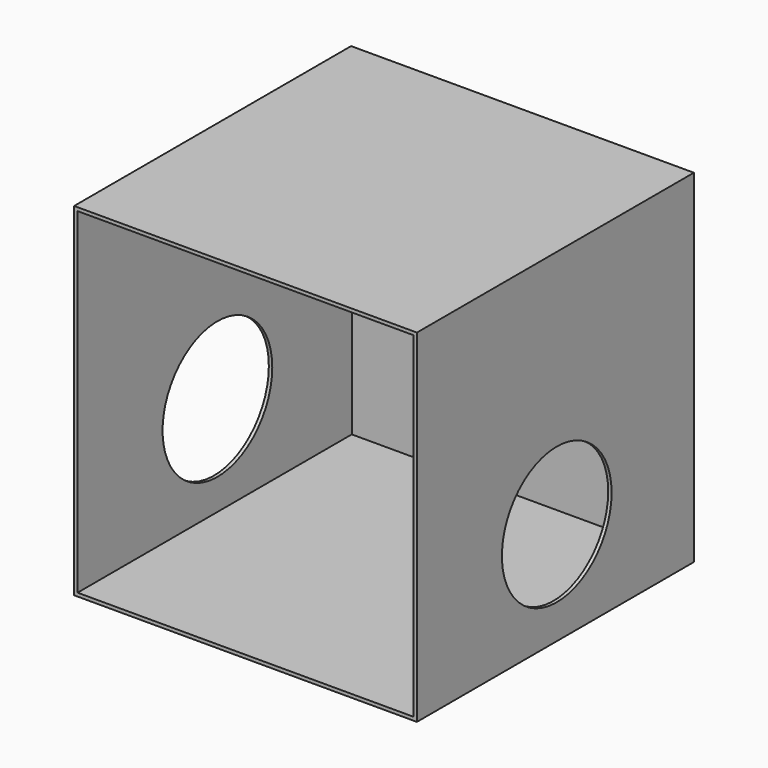
from build123d import *

# Parameters (mm, degrees)
F0_W     = 500
F0_H     = 5
F1_DEPTH = 500
F2_W     = 500
F2_H     = 4.9999952316
F3_DEPTH = 500
F4_W     = 500
F4_H     = 5
F5_DEPTH = 500
F6_W     = 5
F6_H     = 490.0000047684
F6_W_2   = 4.9999952316
F7_DEPTH = 500
F8_R     = 100
F9_DEPTH = 301


with BuildPart() as f1:
    # F0 (on Top) → F1 (new body)
    with BuildSketch(Plane.XY):
        Rectangle(F0_W, F0_H)
    extrude(amount=F1_DEPTH)

    # F2 (on face) → F3 (join)
    with BuildSketch(Plane.XZ.offset(2.5)):
        with Locations((0, 497.5000023842)):
            Rectangle(F2_W, F2_H)
    extrude(amount=F3_DEPTH)

    # F4 (on face) → F5 (join)
    with BuildSketch(Plane.XZ.offset(2.5)):
        with Locations((0, 2.5)):
            Rectangle(F4_W, F4_H)
    extrude(amount=F5_DEPTH)

    # F6 (on face) → F7 (join)
    with BuildSketch(Plane.XZ.offset(2.5)):
        with Locations((247.5, 250.0000023842)):
            Rectangle(F6_W, F6_H)
        with Locations((-247.5000023842, 250.0000023842)):
            Rectangle(F6_W_2, F6_H)
    extrude(amount=F7_DEPTH)

    # F8 (on Right) → F9 (cut, symmetric)
    with BuildSketch(Plane.YZ):
        with Locations((-247.5, 150)):
            Circle(F8_R)
    extrude(amount=F9_DEPTH, both=True, mode=Mode.SUBTRACT)


solid = f1.part
